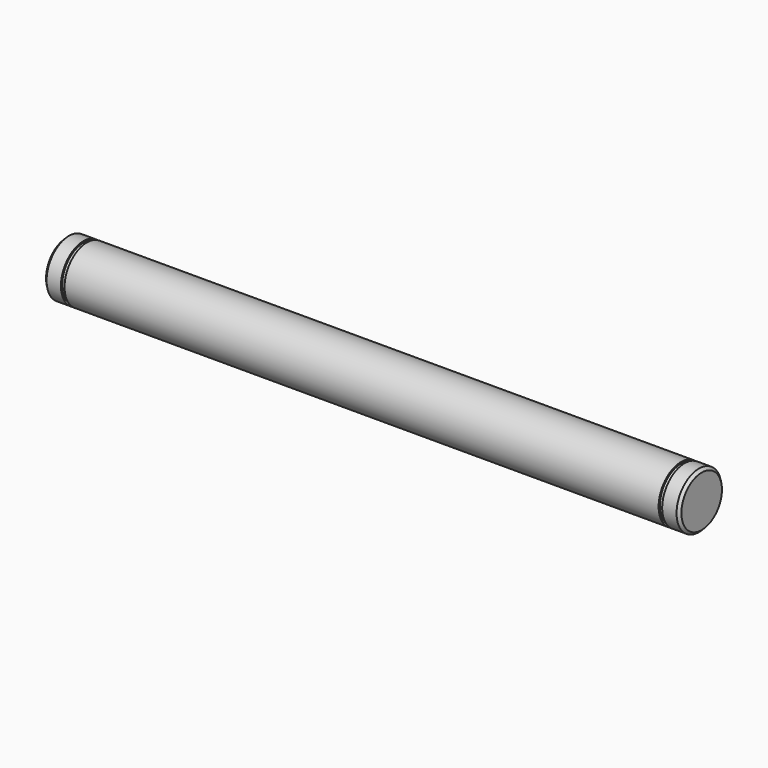
from build123d import *

# Parameters (mm, degrees)
F0_R     = 7.9375
F1_DEPTH = 84.1375
F2_R     = 7.493
F3_DEPTH = 1.016
F4_R     = 7.9375
F5_DEPTH = 4.826
F6_SIZE  = 0.762


with BuildPart() as f1:
    # F0 (on Right) → F1 (new body, symmetric)
    with BuildSketch(Plane.YZ):
        Circle(F0_R)
    extrude(amount=F1_DEPTH, both=True)

    # F2 (on face) → F3 (join)
    with BuildSketch(Plane.YZ.offset(84.1375)):
        Circle(F2_R)
    extrude(amount=F3_DEPTH)

    # F4 (on face) → F5 (join)
    with BuildSketch(Plane.YZ.offset(85.1535)):
        Circle(F4_R)
    extrude(amount=F5_DEPTH)

    # F6
    f6_edges = [f1.edges().sort_by_distance(p)[0] for p in [
        (89.9795, -7.9375, 0),
    ]]
    chamfer(f6_edges, length=F6_SIZE)

    # F7: F1 across plane


with BuildPart() as f1_1:
    add(f1.part)
    add(f1.part.mirror(Plane.YZ))


solid = f1_1.part
